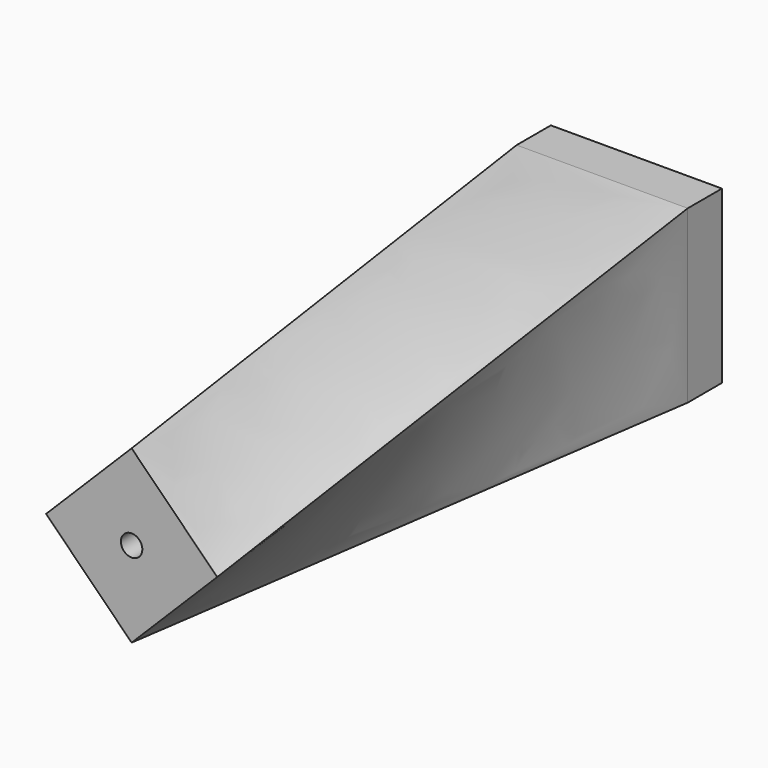
from build123d import *

# Parameters (mm, degrees)
F0_W      = 101.6
F0_H      = 101.6
F1_DEPTH  = 25.4
F1_FACE_W = 101.6
F1_FACE_H = 101.6
F6_D      = 12.7
F6_DEPTH  = 50.8
F6_TIP    = 3.8154649308


with BuildPart() as f1:
    # F0 (on Front) → F1 (new body)
    with BuildSketch(Plane.XZ):
        with Locations((50.8, 50.8)):
            Rectangle(F0_W, F0_H)
    extrude(amount=F1_DEPTH)

    # F3 (on offset) → F4 section 0
    with BuildSketch(Plane.XZ.offset(374.65)):
        Polygon((50.8, 101.6), (0, 50.8), (50.8, 0), (101.6, 50.8), align=None)
    # F1_face (on face) → F4 section 1
    with BuildSketch(Plane(origin=(50.8, -25.4, 50.8), x_dir=(1, 0, 0), z_dir=(0, -1, 0))):
        Rectangle(F1_FACE_W, F1_FACE_H)
    loft()

    # F6
    with Locations(Plane.XZ.offset(374.65)):
        with Locations((50.8, 50.8)):
            Hole(F6_D / 2, depth=F6_DEPTH)
            with Locations((0, 0, -(F6_DEPTH + F6_TIP / 2))):  # 118° drill point
                Cone(0, F6_D / 2, F6_TIP, mode=Mode.SUBTRACT)


solid = f1.part
